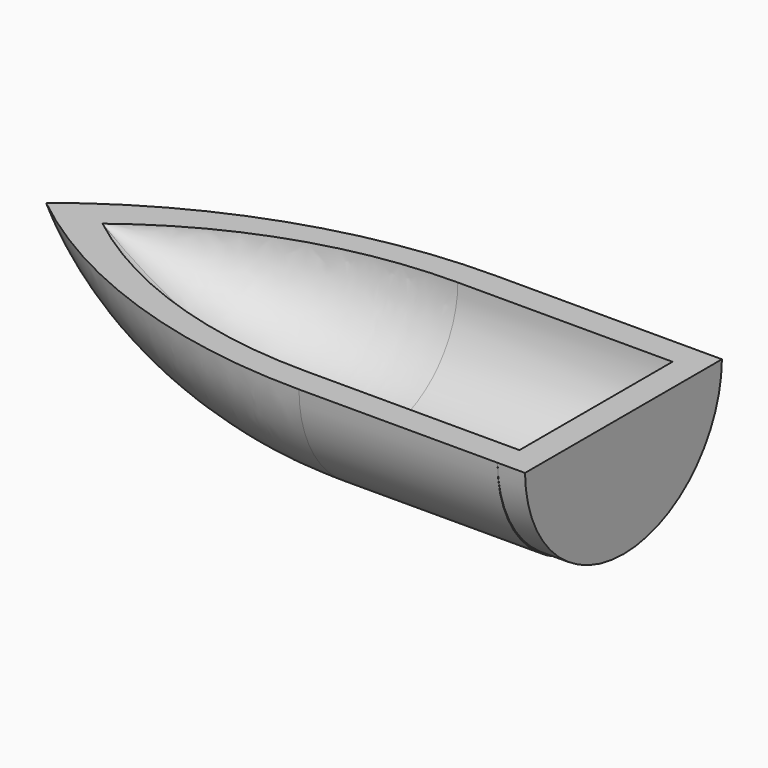
from build123d import *

# Parameters (mm, degrees)
F0_W     = 91.695378
F0_H     = 12.655268
F1_ANGLE = 180
F3_DEPTH = 12.7


with BuildPart() as f1:
    # F0 (on Front) → F1 (revolve, symmetric)
    with BuildSketch(Plane.XZ) as f1_sk:
        with BuildLine():
            Line((0, 0), (0, 12.655268))
            Line((0, 12.655268), (-7.464683, 12.655268))
            ThreePointArc((-7.464683, 12.655268), (-75.533737, 24.009759), (-136.231791, 56.843688))
            Line((-136.231791, 56.843688), (-162.304622, 56.843688))
            ThreePointArc((-162.304622, 56.843688), (-85.985457, 14.621861), (0, 0))
        make_face()
        with Locations((45.847689, 6.327634)):
            Rectangle(F0_W, F0_H)
    revolve(axis=Axis((-81.152311, 0, 56.843688), (-1, 0, 0)), revolution_arc=F1_ANGLE / 2)
    revolve(f1_sk.sketch, axis=Axis((-81.152311, 0, 56.843688), (1, 0, 0)), revolution_arc=F1_ANGLE / 2)

    # F2 (on face) → F3 (join)
    with BuildSketch(Plane.YZ.offset(91.695378)):
        with BuildLine():
            Line((56.843688, 56.843688), (-56.843688, 56.843688))
            ThreePointArc((-56.843688, 56.843688), (0, 0.705409), (56.843688, 56.843688))
        make_face()
    extrude(amount=F3_DEPTH)


solid = f1.part
